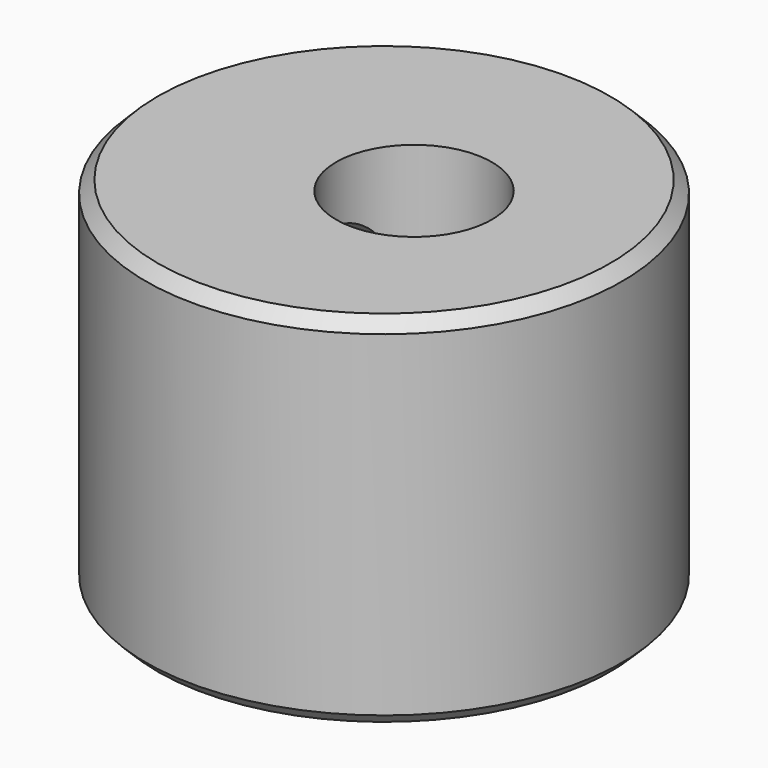
from build123d import *

# Parameters (mm, degrees)
SKETCH051_R          = 7.95
SKETCH051_R_2        = 2.6
PAD016_DEPTH         = 12
SKETCH052_R          = 1.6
POCKET_DEPTH         = 8
CHAMFER_SIZE         = 0.4
BODY_PLACEMENT_ANGLE = 90


with BuildPart() as part:
    # Sketch051 → Pad016 (new body)
    with BuildSketch(Plane(origin=(0, 0, 0), x_dir=(0, 1, 0), z_dir=(0, 0, 1))):
        Circle(SKETCH051_R)
        with Locations((-1, 0)):
            Circle(SKETCH051_R_2, mode=Mode.SUBTRACT)
    extrude(amount=PAD016_DEPTH)

    # Sketch052 → Pocket (cut)
    with BuildSketch(Plane.XZ.offset(-8)):
        with Locations((0, 8.5)):
            Circle(SKETCH052_R)
    extrude(amount=POCKET_DEPTH, mode=Mode.SUBTRACT)

    # Chamfer
    chamfer_edges = [part.edges().sort_by_distance(p)[0] for p in [
        (0, -7.95, 0),
        (0, 7.95, 3.45),
        (1.131391, 7.869082, 7.368649),
        (1.131391, 7.869082, 9.631351),
        (0, 7.95, 11.05),
        (0, -7.95, 12),
        (-1.6, 7.787329, 8.5),
        (0, -3.6, 0),
    ]]
    chamfer(chamfer_edges, length=CHAMFER_SIZE)


with BuildPart() as part_1:
    # Body placement: moved
    add(part.part.moved(Location((0, 0, 3))).rotate(Axis((0, 0, 3), (0, 0, 1)), BODY_PLACEMENT_ANGLE))


solid = part_1.part
